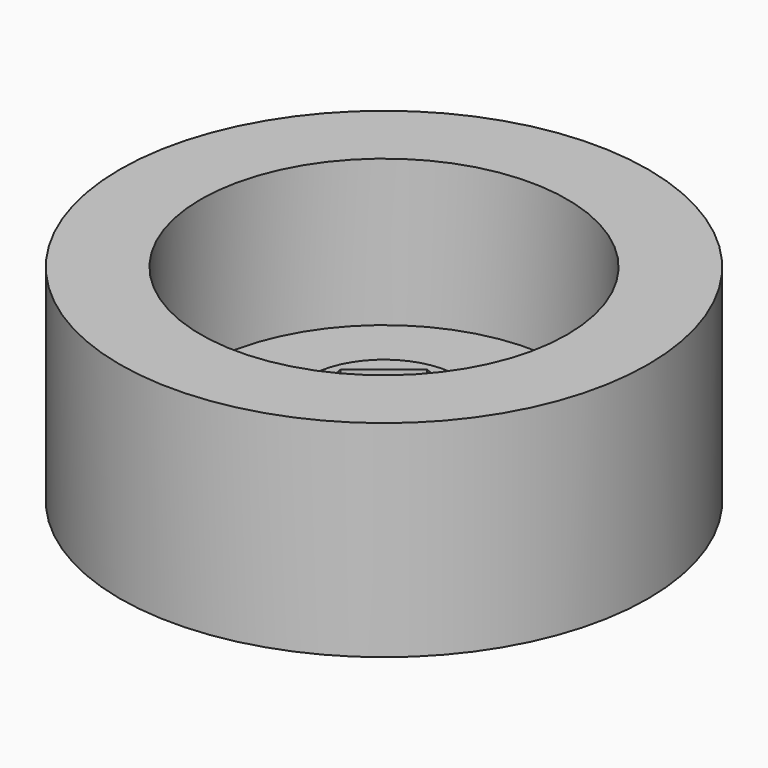
from build123d import *

# Parameters (mm, degrees)
F0_R     = 1.524
F1_DEPTH = 4.953
F0_R_2   = 6.240044
F2_DEPTH = 7.112
F3_R     = 15.494
F3_R_2   = 5.855876
F4_DEPTH = 4.953
F5_R     = 21.971
F5_R_2   = 15.24
F6_DEPTH = 17.145


with BuildPart() as f1:
    # F0 (on Top) → F1 (new body)
    with BuildSketch(Plane.XY):
        Polygon((-0.860959, 5.535358), (-5.224241, 2.022067), (-4.363281, -3.513292), (0.860959, -5.535358), (5.224241, -2.022067), (4.363281, 3.513292), align=None)
        Circle(F0_R, mode=Mode.SUBTRACT)
    extrude(amount=F1_DEPTH)


with BuildPart() as f2:
    # F0 (on Top) → F2 (new body)
    with BuildSketch(Plane.XY):
        Circle(F0_R_2)
        Polygon((-4.363281, -3.513292), (-5.224241, 2.022067), (-0.860959, 5.535358), (4.363281, 3.513292), (5.224241, -2.022067), (0.860959, -5.535358), align=None, mode=Mode.SUBTRACT)
    extrude(amount=F2_DEPTH)

    # F3 (on Top) → F4 (join)
    with BuildSketch(Plane.XY):
        Circle(F3_R)
        Circle(F3_R_2, mode=Mode.SUBTRACT)
    extrude(amount=F4_DEPTH)

    # F5 (on Top) → F6 (join)
    with BuildSketch(Plane.XY):
        Circle(F5_R)
        Circle(F5_R_2, mode=Mode.SUBTRACT)
    extrude(amount=F6_DEPTH)


solid = Compound([f1.part, f2.part])
